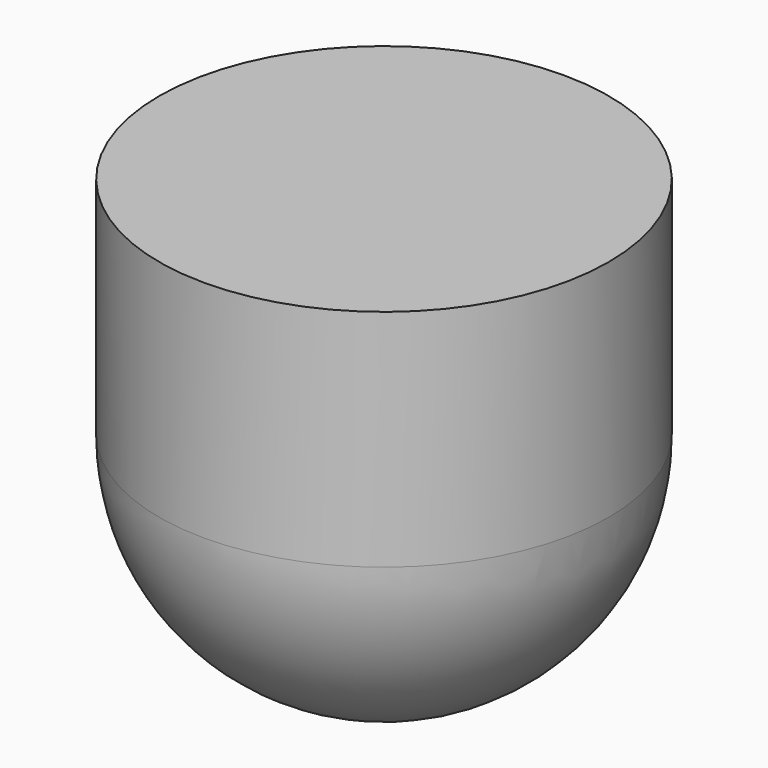
from build123d import *

# Parameters (mm, degrees)
F1_ANGLE = 180
F2_DEPTH = 10


with BuildPart() as f1:
    # F0 (on Top) → F1 (revolve)
    with BuildSketch(Plane.XY):
        with BuildLine():
            Line((0, -10), (0, 10))
            ThreePointArc((0, 10), (-10, 0), (0, -10))
        make_face()
    revolve(axis=Axis((0, 0, 0), (0, -1, 0)), revolution_arc=F1_ANGLE)

    # F1_face (on face) → F2 (join)
    with BuildSketch(Plane.XY):
        with BuildLine():
            ThreePointArc((0, 10), (-10, 0), (0, -10))
            ThreePointArc((0, -10), (10, 0), (0, 10))
        make_face()
    extrude(amount=F2_DEPTH)


solid = f1.part
